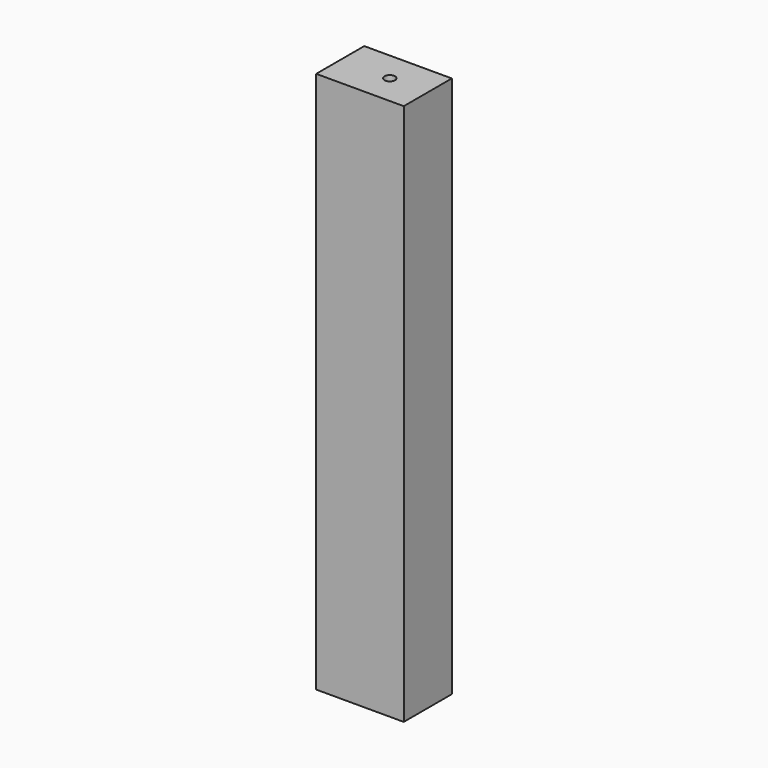
from build123d import *

# Parameters (mm, degrees)
F0_W     = 17.151952
F0_H     = 154.776096
F1_DEPTH = 25
F3_D     = 3.048


with BuildPart() as f1:
    # F0 (on Right) → F1 (new body)
    with BuildSketch(Plane.YZ):
        with Locations((0, -23.27767)):
            Rectangle(F0_W, F0_H)
    extrude(amount=F1_DEPTH)

    # F3 (through all)
    with Locations(Plane(origin=(0, 0, -100.665718), x_dir=(1, 0, 0), z_dir=(0, 0, -1))):
        with Locations((14.144599, 0)):
            Hole(F3_D / 2)


solid = f1.part
